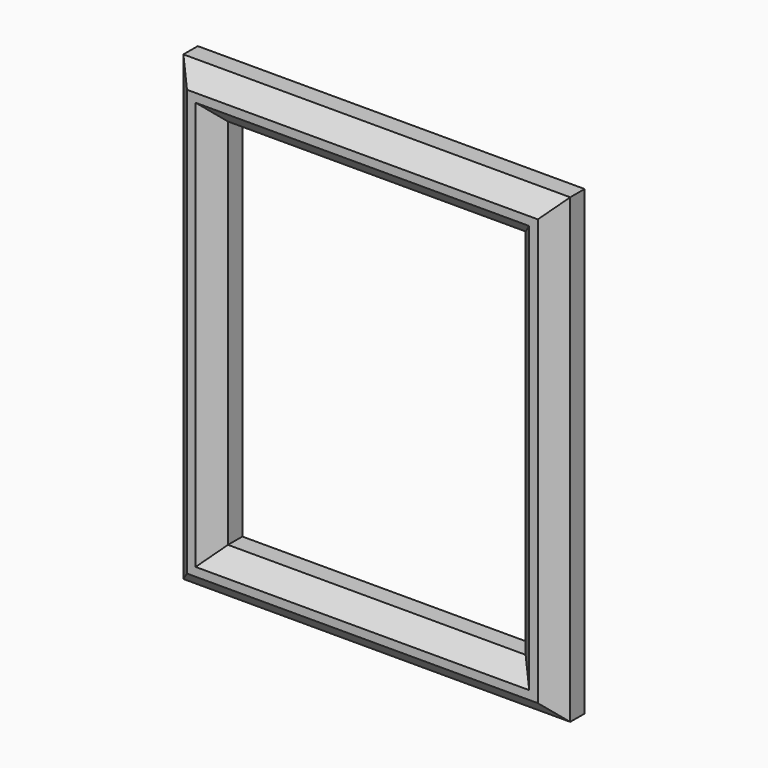
from build123d import *

# Parameters (mm, degrees)
F0_W     = 273.222029
F0_H     = 326.218605
F0_W_2   = 210.230053
F0_H_2   = 263.226629
F1_DEPTH = 25.4
F2_SIZE  = 12.7


with BuildPart() as f1:
    # F0 (on Front) → F1 (new body)
    with BuildSketch(Plane.XZ):
        with Locations((136.611014, 163.109302)):
            Rectangle(F0_W, F0_H)
        with Locations((136.611014, 163.109303)):
            Rectangle(F0_W_2, F0_H_2, mode=Mode.SUBTRACT)
    extrude(amount=F1_DEPTH)

    # F2
    f2_edges = [f1.edges().sort_by_distance(p)[0] for p in [
        (0, -25.4, 163.109303),
        (136.611015, -25.4, 0),
        (273.222029, -25.4, 163.109303),
        (136.611015, -25.4, 326.218605),
        (31.495988, -25.4, 163.109303),
        (136.611015, -25.4, 294.722617),
        (241.726041, -25.4, 163.109303),
        (136.611015, -25.4, 31.495988),
    ]]
    chamfer(f2_edges, length=F2_SIZE)


solid = f1.part
